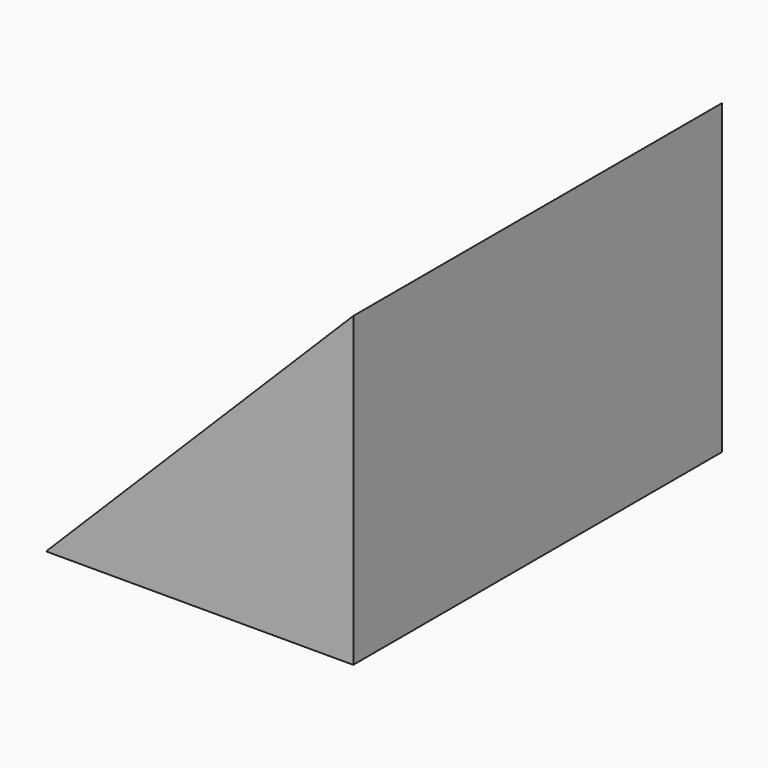
from build123d import *

# Parameters (mm, degrees)
F1_DEPTH = 38.1
F3_START = -6.35
F3_DEPTH = 25.4


with BuildPart() as f1:
    # F0 (on Front) → F1 (new body)
    with BuildSketch(Plane.XZ):
        Polygon((25.4, 25.4), (0, 0), (25.4, 0), align=None)
    extrude(amount=F1_DEPTH)

    # F2 (on face) → F3 (cut)
    with BuildSketch(Plane.XZ.offset(38.1).offset(F3_START)):
        Polygon((12.7, 0), (12.7, 12.7), (0, 0), align=None)
    extrude(amount=-F3_DEPTH, mode=Mode.SUBTRACT)


solid = f1.part
